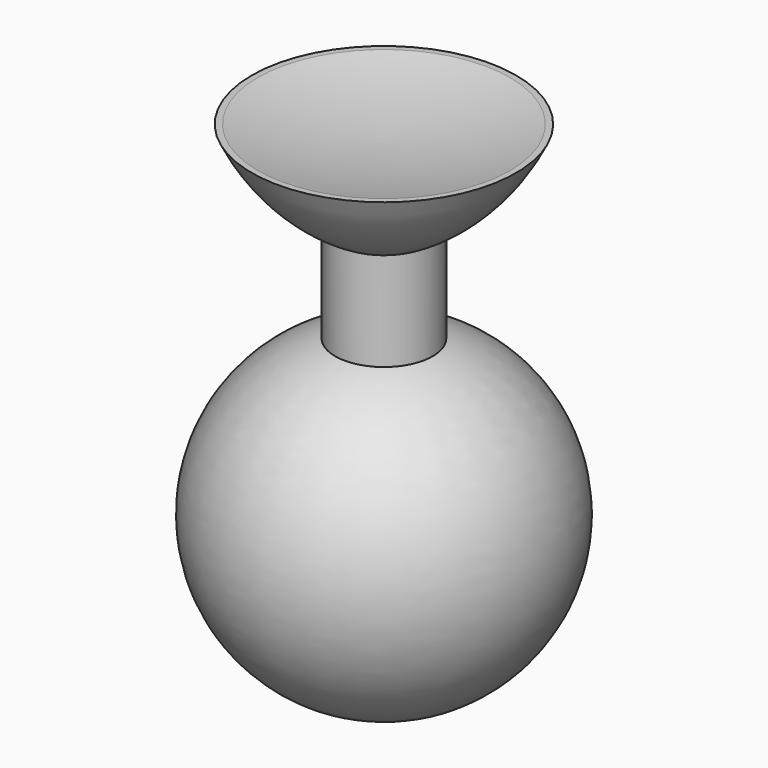
from build123d import *


with BuildPart() as f1:
    # F0 (on Front) → F1 (revolve)
    with BuildSketch(Plane.XZ):
        with BuildLine():
            ThreePointArc((-3.05079, 19.851144), (-10.042102, 8.616696), (0, 0))
            Line((0, 0), (0, 20.32))
            ThreePointArc((0, 20.32), (-1.543304, 20.202102), (-3.05079, 19.851144))
        make_face()
        with BuildLine():
            ThreePointArc((-3.05079, 19.851144), (-1.543304, 20.202102), (0, 20.32))
            Line((0, 20.32), (0, 24.765))
            ThreePointArc((0, 24.765), (-1.56584, 25.286782), (-3.05079, 26.007225))
            Line((-3.05079, 26.007225), (-3.05079, 19.851144))
        make_face()
        with BuildLine():
            ThreePointArc((-3.05079, 26.007225), (-1.56584, 25.286782), (0, 24.765))
            Line((0, 24.765), (0, 30.632181))
            ThreePointArc((0, 30.632181), (-3.975048, 30.900731), (-7.888817, 31.646072))
            Line((-7.888817, 31.646072), (-8.269817, 31.646072))
            ThreePointArc((-8.269817, 31.646072), (-6.096965, 28.422497), (-3.05079, 26.007225))
        make_face()
    revolve(axis=Axis((0, 0, 10.16), (0, 0, 1)))


solid = f1.part
